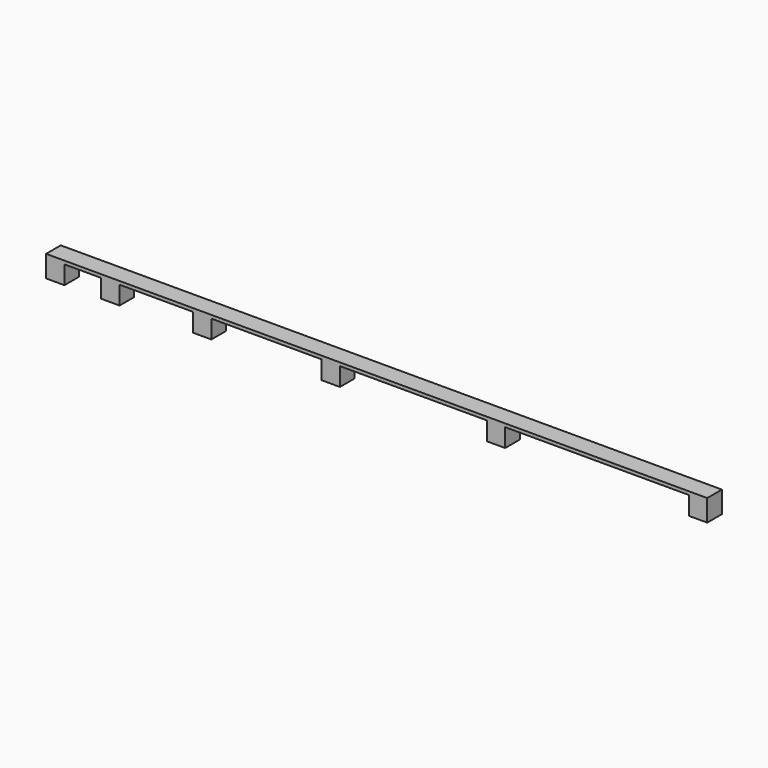
from build123d import *

# Parameters (mm, degrees)
F0_W     = 5
F0_H     = 5
F1_DEPTH = 5
F7_W     = 175
F7_H     = 5
F7_W_2   = 5
F8_DEPTH = 0.9


with BuildPart() as f1:
    # F0 (on Top) → F1 (new body)
    with BuildSketch(Plane.XY):
        with Locations((2.5, 2.5)):
            Rectangle(F0_W, F0_H)
    extrude(amount=F1_DEPTH)



with BuildPart() as f2_1:
    # F2: copy of F1
    add(f1.part.moved(Location((15, 0, 0))))


with BuildPart() as f3_1:
    # F3: copy of F2_1
    add(f2_1.part.moved(Location((25, 0, 0))))


with BuildPart() as f4_1:
    # F4: copy of F3_1
    add(f3_1.part.moved(Location((35, 0, 0))))


with BuildPart() as f5_1:
    # F5: copy of F4_1
    add(f4_1.part.moved(Location((45, 0, 0))))


with BuildPart() as f6_1:
    # F6: copy of F5_1
    add(f5_1.part.moved(Location((55, 0, 0))))


with BuildPart() as f1_1:
    add(f1.part)

    add(f2_1.part)  # F8 merges F2_1

    add(f3_1.part)  # F8 merges F3_1

    add(f4_1.part)  # F8 merges F4_1

    add(f5_1.part)  # F8 merges F5_1

    add(f6_1.part)  # F8 merges F6_1
    # F7 (on face) → F8 (join)
    with BuildSketch(Plane.XY.offset(5)):
        with Locations((92.5, 2.5)):
            Rectangle(F7_W, F7_H)
        with Locations((2.5, 2.5)):
            Rectangle(F7_W_2, F7_H)
    extrude(amount=F8_DEPTH)


solid = f1_1.part
